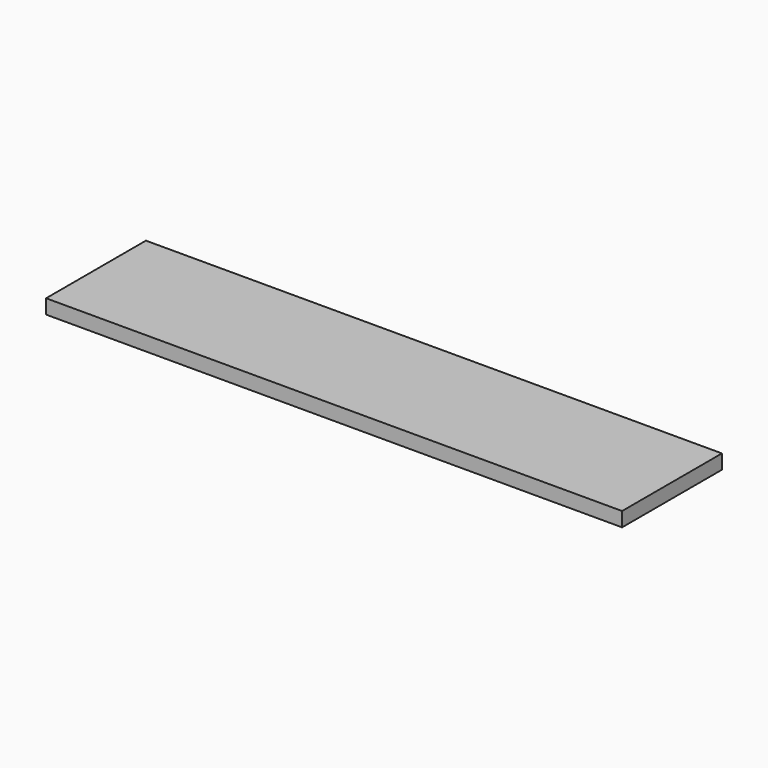
from build123d import *

# Parameters (mm, degrees)
F0_W          = 130
F0_H          = 15
F1_DEPTH      = 300
F1_DEPTH_BACK = 300


with BuildPart() as f1:
    # F0 (on Right) → F1 (new body, two sides)
    with BuildSketch(Plane.YZ) as f1_sk:
        with Locations((0, 7.5)):
            Rectangle(F0_W, F0_H)
    extrude(amount=-F1_DEPTH)
    extrude(f1_sk.sketch, amount=F1_DEPTH_BACK)


solid = f1.part
